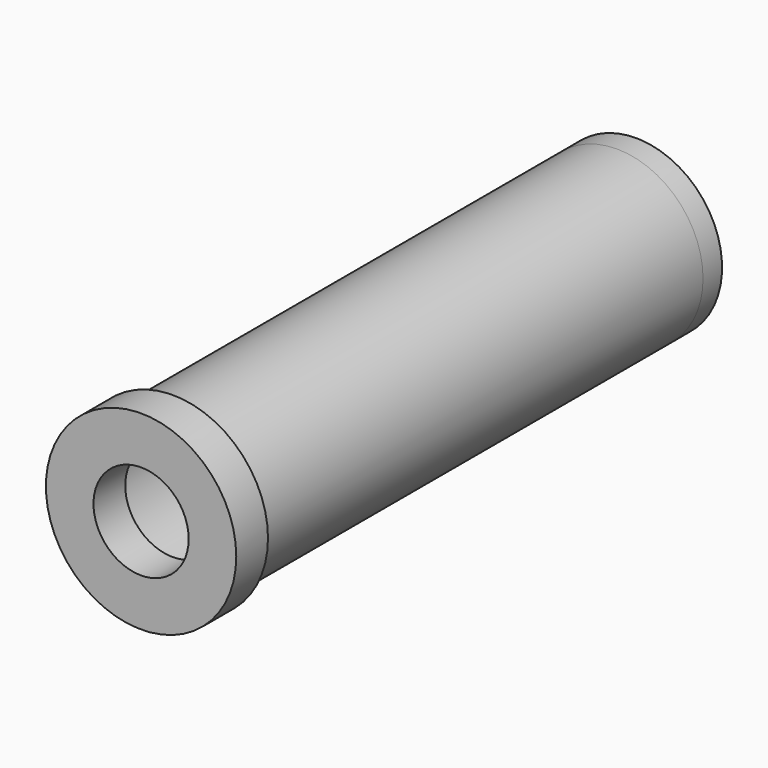
from build123d import *

# Parameters (mm, degrees)
F0_R     = 12
F0_R_2   = 10.85
F0_R_3   = 9.35
F0_R_4   = 6
F1_DEPTH = 5
F2_DEPTH = 70
F3_R     = 10.85
F3_R_2   = 4
F4_DEPTH = 3


with BuildPart() as f1:
    # F0 (on Front) → F1 (new body)
    with BuildSketch(Plane.XZ):
        Circle(F0_R)
        Circle(F0_R_2, mode=Mode.SUBTRACT)
        Circle(F0_R_2)
        Circle(F0_R_3, mode=Mode.SUBTRACT)
        Circle(F0_R_3)
        Circle(F0_R_4, mode=Mode.SUBTRACT)
    extrude(amount=F1_DEPTH)

    # F0 (on Front) → F2 (join)
    with BuildSketch(Plane.XZ):
        Circle(F0_R_2)
        Circle(F0_R_3, mode=Mode.SUBTRACT)
    extrude(amount=-F2_DEPTH)

    # F3 (on face) → F4 (join)
    with BuildSketch(Plane(origin=(0, 70, 0), x_dir=(-1, 0, 0), z_dir=(0, 1, 0))):
        Circle(F3_R)
        Circle(F3_R_2, mode=Mode.SUBTRACT)
    extrude(amount=F4_DEPTH)


solid = f1.part
